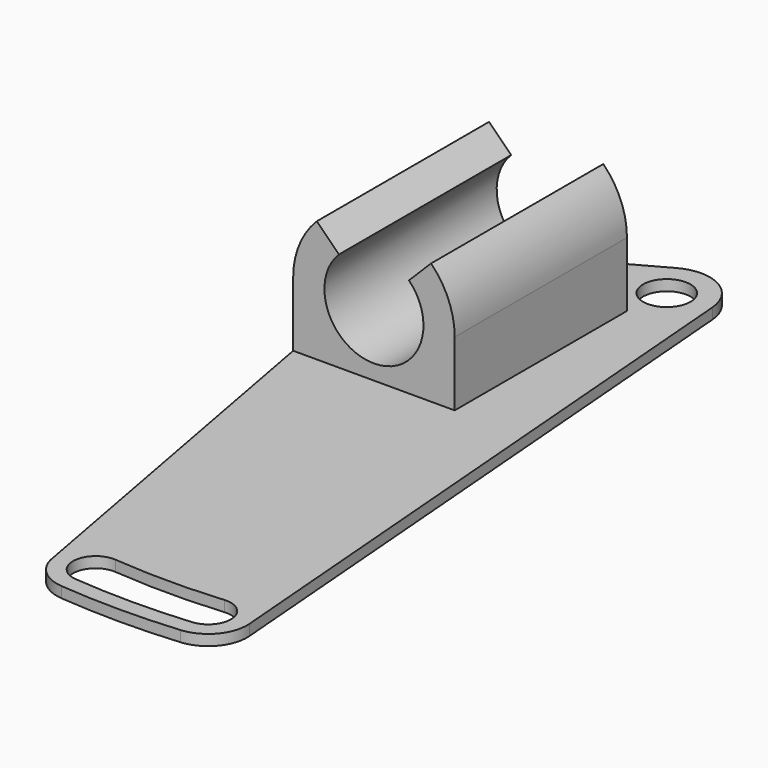
from build123d import *

# Parameters (mm, degrees)
PAD_DEPTH    = 20
SKETCH001_R  = 2.2
PAD001_DEPTH = 1
PAD002_DEPTH = 20


with BuildPart() as part:
    # Sketch → Pad (new body)
    with BuildSketch(Plane.XZ):
        with BuildLine():
            Line((-7.5, 7.000023), (-7.5, 0))
            Line((-7.5, 0), (7.5, 0))
            Line((7.5, 0), (7.5, 7.000023))
            ThreePointArc((7.5, 7.000023), (6.929092, 9.870136), (5.303301, 12.303301))
            Line((4.242641, 11.242641), (5.303301, 12.303301))
            ThreePointArc((-4.242641, 11.242641), (0, 1), (4.242641, 11.242641))
            Line((-4.242641, 11.242641), (-5.303301, 12.303301))
            ThreePointArc((-5.303301, 12.303301), (-6.929092, 9.870137), (-7.5, 7.000023))
        make_face()
    extrude(amount=PAD_DEPTH)

    # Sketch001 → Pad001 (new body)
    with BuildSketch(Plane(origin=(0, 0, 0), x_dir=(1, 0, 0), z_dir=(0, 0, -1))):
        with BuildLine():
            ThreePointArc((13.543105, 59.357983), (8, 59.6), (2.456895, 59.357983))
            ThreePointArc((2.456895, 59.357983), (0.439153, 58.514691), (-0.718231, 56.65919))
            Line((-7.5, 20), (-0.718231, 56.65919))
            Line((-7.5, 0), (-7.5, 20))
            Line((6.06439, -7.500488), (-7.5, 0))
            ThreePointArc((6.06439, -7.500488), (9.891476, -7.524531), (11.987014, -4.32205))
            Line((11.987014, -4.32205), (16.817658, 55.481839))
            ThreePointArc((16.817658, 55.481839), (15.979375, 58.094898), (13.543105, 59.357983))
        make_face()
        with Locations((8, -4)):
            Circle(SKETCH001_R, mode=Mode.SUBTRACT)
        with BuildLine():
            ThreePointArc((13.046318, 53.679673), (8, 53.9), (2.953682, 53.679673))
            ThreePointArc((2.587628, 57.863691), (0.678647, 55.588655), (2.953682, 53.679673))
            ThreePointArc((13.412372, 57.863691), (8, 58.1), (2.587628, 57.863691))
            ThreePointArc((13.046318, 53.679673), (15.321353, 55.588655), (13.412372, 57.863691))
        make_face(mode=Mode.SUBTRACT)
    extrude(amount=-PAD001_DEPTH)

    # Sketch002 → Pad002 (new body)
    with BuildSketch(Plane.XZ.offset(20)):
        with BuildLine():
            ThreePointArc((-3.252691, 10.252691), (0, 2.4), (3.252691, 10.252691))
            Line((3.252691, 10.252691), (4.242641, 11.242641))
            ThreePointArc((-4.242641, 11.242641), (0, 1), (4.242641, 11.242641))
            Line((-3.252691, 10.252691), (-4.242641, 11.242641))
        make_face()
    extrude(amount=-PAD002_DEPTH)


solid = part.part
